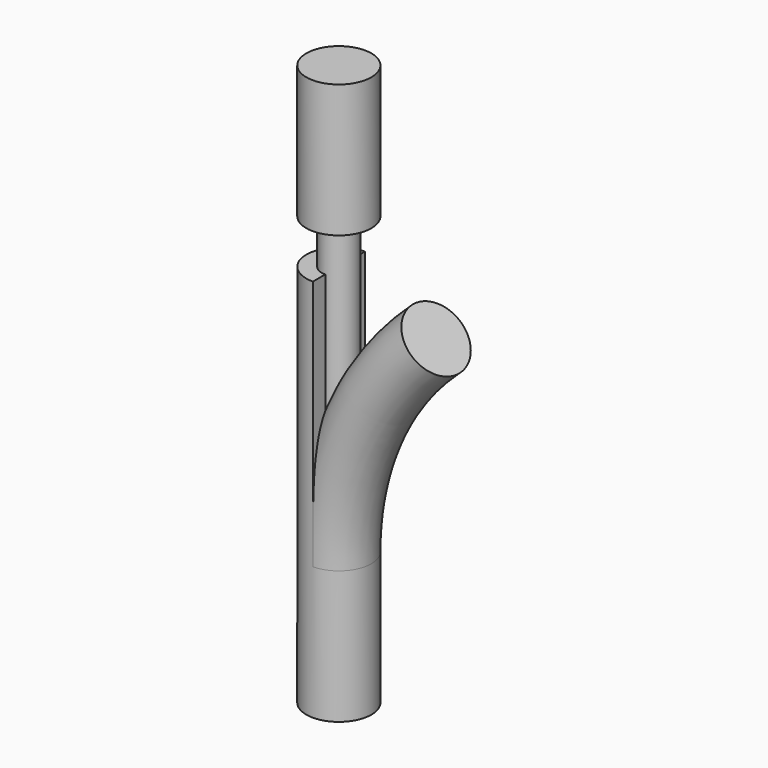
from build123d import *

# Parameters (mm, degrees)
BOX001027045134_W         = 10
BOX001027045134_H         = 10
BOX001027045134_DEPTH     = 32
CYLINDER192_R             = 2.2
CYLINDER192_DEPTH         = 17
CUT158_PLACEMENT_ANGLE    = 180
BOX001027045133_W         = 10
BOX001027045133_H         = 10
BOX001027045133_DEPTH     = 32
BOX001027045132_W         = 15
BOX001027045132_H         = 10
BOX001027045132_DEPTH     = 18
BOX001027045135_W         = 25
BOX001027045135_H         = 10
BOX001027045135_DEPTH     = 25
TORUS013_R                = 2.2
TORUS013_ROLL_ANGLE       = 90
COMMON091_PITCH_ANGLE     = -45
COMMON090_PLACEMENT_ANGLE = 180
CYLINDER191_R             = 2.2
CYLINDER191_DEPTH         = 9
CYLINDER193_R             = 2.2
CYLINDER193_DEPTH         = 9
CYLINDER190_R             = 1.15
CYLINDER190_DEPTH         = 32


with BuildPart() as cube187:
    # Box001027045134 → Box001027045134 (new body)
    with BuildSketch(Plane(origin=(0, -5, -22), x_dir=(1, 0, 0), z_dir=(0, 0, 1))):
        with Locations((5, 5)):
            Rectangle(BOX001027045134_W, BOX001027045134_H)
    extrude(amount=BOX001027045134_DEPTH)


with BuildPart() as cut158:
    # Cylinder192 → Cylinder192 (new body)
    with BuildSketch(Plane.XY.offset(-15)):
        Circle(CYLINDER192_R)
    extrude(amount=CYLINDER192_DEPTH)

    # Cut158: cut Cube187
    add(cube187.part, mode=Mode.SUBTRACT)


with BuildPart() as cut158_1:
    # Cut158 placement: moved
    add(cut158.part.moved(Location((0, 0, 6))).rotate(Axis((0, 0, 6), (1, 0, 0)), CUT158_PLACEMENT_ANGLE))


with BuildPart() as cube186:
    # Box001027045133 → Box001027045133 (new body)
    with BuildSketch(Plane(origin=(0, -5, -22), x_dir=(1, 0, 0), z_dir=(0, 0, 1))):
        with Locations((5, 5)):
            Rectangle(BOX001027045133_W, BOX001027045133_H)
    extrude(amount=BOX001027045133_DEPTH)


with BuildPart() as cube185:
    # Box001027045132 → Box001027045132 (new body)
    with BuildSketch(Plane(origin=(-5, -5, -18), x_dir=(1, 0, 0), z_dir=(0, 0, 1))):
        with Locations((7.5, 5)):
            Rectangle(BOX001027045132_W, BOX001027045132_H)
    extrude(amount=BOX001027045132_DEPTH)


with BuildPart() as cube188:
    # Box001027045135 → Box001027045135 (new body)
    with BuildSketch(Plane(origin=(-3, -5, -1), x_dir=(1, 0, 0), z_dir=(0, 0, 1))):
        with Locations((12.5, 5)):
            Rectangle(BOX001027045135_W, BOX001027045135_H)
    extrude(amount=BOX001027045135_DEPTH)


with BuildPart() as common090:
    # Torus013 → Torus013 (revolve)
    with BuildSketch(Plane.XZ):
        with Locations((20, 0)):
            Circle(TORUS013_R)
    revolve(axis=Axis((0, 0, 0), (0, 0, 1)))


with BuildPart() as common090_1:
    # Torus013 roll: moved
    add(common090.part.rotate(Axis((0, 0, 0), (1, 0, 0)), TORUS013_ROLL_ANGLE))


with BuildPart() as common090_2:
    # Torus013 placement: moved
    add(common090_1.part.moved(Location((20, 0, 0))))

    # Common091: intersect Cube188
    add(cube188.part, mode=Mode.INTERSECT)


with BuildPart() as common090_3:
    # Common091 pitch: moved
    add(common090_2.part.rotate(Axis((0, 0, 0), (0, 1, 0)), COMMON091_PITCH_ANGLE))


with BuildPart() as common090_4:
    # Common091 placement: moved
    add(common090_3.part.moved(Location((5.857864, 0, -14.142136))))

    # Common089: intersect Cube185
    add(cube185.part, mode=Mode.INTERSECT)

    # Common090: intersect Cube186
    add(cube186.part, mode=Mode.INTERSECT)


with BuildPart() as common090_5:
    # Common090 placement: moved
    add(common090_4.part.moved(Location((0, 0, 4))).rotate(Axis((0, 0, 4), (1, 0, 0)), COMMON090_PLACEMENT_ANGLE))


with BuildPart() as cylinder238:
    # Cylinder191 → Cylinder191 (new body)
    with BuildSketch(Plane(origin=(0, 0, 4), x_dir=(1, 0, 0), z_dir=(0, 0, -1))):
        Circle(CYLINDER191_R)
    extrude(amount=CYLINDER191_DEPTH)


with BuildPart() as cylinder240:
    # Cylinder193 → Cylinder193 (new body)
    with BuildSketch(Plane(origin=(0, 0, 33), x_dir=(1, 0, 0), z_dir=(0, 0, -1))):
        Circle(CYLINDER193_R)
    extrude(amount=CYLINDER193_DEPTH)


with BuildPart() as filament_path001:
    # Cylinder190 → Cylinder190 (new body)
    with BuildSketch(Plane(origin=(0, 0, 30), x_dir=(1, 0, 0), z_dir=(0, 0, -1))):
        Circle(CYLINDER190_R)
    extrude(amount=CYLINDER190_DEPTH)

    # Fusion112082: union Cut158, Common090, Cylinder238, Cylinder240
    add(cut158_1.part)
    add(common090_5.part)
    add(cylinder238.part)
    add(cylinder240.part)


with BuildPart() as filament_path001_1:
    # Fusion112082 placement: moved
    add(filament_path001.part.moved(Location((0, 0, 5))))


solid = filament_path001_1.part
